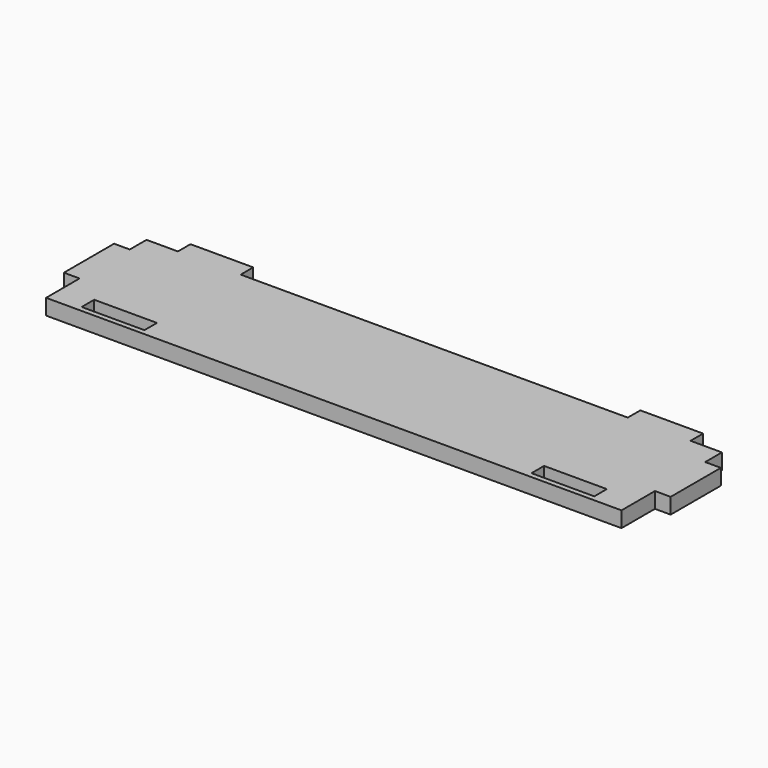
from build123d import *

# Parameters (mm, degrees)
F0_W     = 12
F0_H     = 3
F1_DEPTH = 3


with BuildPart() as f1:
    # F0 (on Top) → F1 (new body)
    with BuildSketch(Plane.XY):
        Polygon((55, 8), (55, 12), (49, 12), (49, 15), (37, 15), (37, 12), (-37, 12), (-37, 15), (-49, 15), (-49, 12), (-55, 12), (-55, 8), (-58, 8), (-58, -4), (-55, -4), (-55, -12), (55, -12), (55, -4), (58, -4), (58, 8), align=None)
        with Locations((-43, -9.5)):
            Rectangle(F0_W, F0_H, mode=Mode.SUBTRACT)
        with Locations((43, -9.5)):
            Rectangle(F0_W, F0_H, mode=Mode.SUBTRACT)
    extrude(amount=F1_DEPTH)


solid = f1.part
